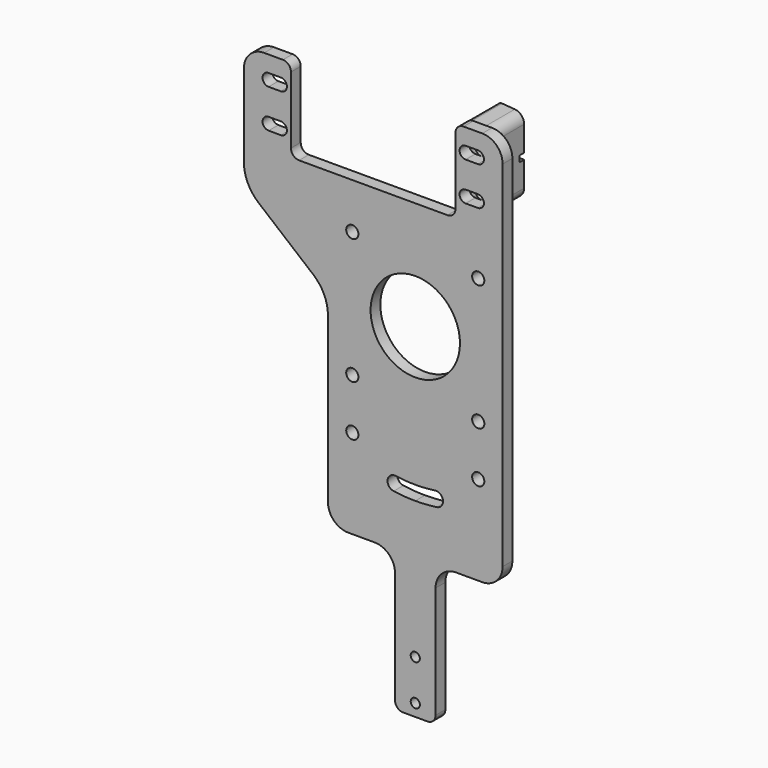
from build123d import *

# Parameters (mm, degrees)
F1_R     = 1.5
F1_R_2   = 1.125
F1_R_3   = 11
F2_DEPTH = 3
F3_R     = 1.5
F4_DEPTH = 10
F5_W     = 6.5
F5_H     = 1.5
F6_DEPTH = 1.5
F7_R     = 1
F8_R     = 2.5


with BuildPart() as f2:
    # F1 (on Front) → F2 (new body)
    with BuildSketch(Plane.XZ):
        with BuildLine():
            ThreePointArc((16.5, -50), (20.035534, -48.535534), (21.5, -45))
            Line((21.5, -45), (21.5, 42.25))
            ThreePointArc((21.5, 42.25), (20.035534, 45.785534), (16.5, 47.25))
            Line((16.5, 47.25), (11.9, 47.25))
            ThreePointArc((11.9, 47.25), (10.485786, 46.664214), (9.9, 45.25))
            Line((9.9, 45.25), (9.9, 28.75))
            ThreePointArc((9.9, 28.75), (9.314214, 27.335786), (7.9, 26.75))
            Line((7.9, 26.75), (-28.6, 26.75))
            ThreePointArc((-28.6, 26.75), (-30.014214, 27.335786), (-30.6, 28.75))
            Line((-30.6, 28.75), (-30.6, 45.25))
            ThreePointArc((-30.6, 45.25), (-31.185786, 46.664214), (-32.6, 47.25))
            Line((-32.6, 47.25), (-37.2, 47.25))
            ThreePointArc((-37.2, 47.25), (-40.735534, 45.785534), (-42.2, 42.25))
            Line((-42.2, 42.25), (-42.2, 22.015033))
            ThreePointArc((-42.2, 22.015033), (-41.251777, 17.7647), (-38.586933, 14.320419))
            Line((-38.586933, 14.320419), (-25.113067, 3.136405))
            ThreePointArc((-25.113067, 3.136405), (-22.448223, -0.307876), (-21.5, -4.558209))
            Line((-21.5, -4.558209), (-21.5, -45))
            ThreePointArc((-21.5, -45), (-20.035534, -48.535534), (-16.5, -50))
            Line((-16.5, -50), (-10, -50))
            ThreePointArc((-10, -50), (-6.464466, -51.464466), (-5, -55))
            Line((-5, -55), (-5, -82.573619))
            ThreePointArc((-5, -82.573619), (-4.414214, -83.987833), (-3, -84.573619))
            Line((-3, -84.573619), (3, -84.573619))
            ThreePointArc((3, -84.573619), (4.414214, -83.987833), (5, -82.573619))
            Line((5, -82.573619), (5, -55))
            ThreePointArc((5, -55), (6.464466, -51.464466), (10, -50))
            Line((10, -50), (16.5, -50))
        make_face()
        with Locations((-15.5, -28)):
            Circle(F1_R, mode=Mode.SUBTRACT)
        with Locations((0, -81.573619)):
            Circle(F1_R_2, mode=Mode.SUBTRACT)
        with Locations((0, -71.573619)):
            Circle(F1_R_2, mode=Mode.SUBTRACT)
        with BuildLine():
            ThreePointArc((0, -34.25), (2.419604, -34.164426), (4.827117, -33.908132))
            ThreePointArc((4.827117, -33.908132), (6.80629, -35.394024), (5.320399, -37.373197))
            ThreePointArc((5.320399, -37.373197), (2.666863, -37.655681), (0, -37.75))
            ThreePointArc((0, -37.75), (-2.666863, -37.655681), (-5.320399, -37.373197))
            ThreePointArc((-5.320399, -37.373197), (-6.80629, -35.394024), (-4.827117, -33.908132))
            ThreePointArc((-4.827117, -33.908132), (-2.419604, -34.164426), (0, -34.25))
        make_face(mode=Mode.SUBTRACT)
        with Locations((15.5, -28)):
            Circle(F1_R, mode=Mode.SUBTRACT)
        with Locations((-15.5, -15.5)):
            Circle(F1_R, mode=Mode.SUBTRACT)
        with BuildLine():
            ThreePointArc((-36.1, 30.75), (-37.6, 32.25), (-36.1, 33.75))
            Line((-36.1, 33.75), (-33.1, 33.75))
            ThreePointArc((-33.1, 33.75), (-31.6, 32.25), (-33.1, 30.75))
            Line((-33.1, 30.75), (-36.1, 30.75))
        make_face(mode=Mode.SUBTRACT)
        with BuildLine():
            Line((-33.1, 40.25), (-36.1, 40.25))
            ThreePointArc((-36.1, 40.25), (-37.6, 41.75), (-36.1, 43.25))
            Line((-36.1, 43.25), (-33.1, 43.25))
            ThreePointArc((-33.1, 43.25), (-31.6, 41.75), (-33.1, 40.25))
        make_face(mode=Mode.SUBTRACT)
        with Locations((-15.5, 15.5)):
            Circle(F1_R, mode=Mode.SUBTRACT)
        Circle(F1_R_3, mode=Mode.SUBTRACT)
        with Locations((15.5, -15.5)):
            Circle(F1_R, mode=Mode.SUBTRACT)
        with Locations((15.5, 15.5)):
            Circle(F1_R, mode=Mode.SUBTRACT)
        with BuildLine():
            Line((15.4, 30.75), (12.4, 30.75))
            ThreePointArc((12.4, 30.75), (10.9, 32.25), (12.4, 33.75))
            Line((12.4, 33.75), (15.4, 33.75))
            ThreePointArc((15.4, 33.75), (16.9, 32.25), (15.4, 30.75))
        make_face(mode=Mode.SUBTRACT)
        with BuildLine():
            Line((15.4, 40.25), (12.4, 40.25))
            ThreePointArc((12.4, 40.25), (10.9, 41.75), (12.4, 43.25))
            Line((12.4, 43.25), (15.4, 43.25))
            ThreePointArc((15.4, 43.25), (16.9, 41.75), (15.4, 40.25))
        make_face(mode=Mode.SUBTRACT)
    extrude(amount=F2_DEPTH)


with BuildPart() as f4:
    # F3 (on Front) → F4 (new body)
    with BuildSketch(Plane.XZ):
        Polygon((16.4, 27.75), (16.4, 46.25), (9.9, 46.75), (9.9, 27.25), align=None)
        with Locations((13.9, 32.25)):
            Circle(F3_R, mode=Mode.SUBTRACT)
        with Locations((13.9, 41.75)):
            Circle(F3_R, mode=Mode.SUBTRACT)
    extrude(amount=-F4_DEPTH)

    # F5 (on face) → F6 (cut)
    with BuildSketch(Plane(origin=(0, 10, 0), x_dir=(-1, 0, 0), z_dir=(0, 1, 0))):
        with Locations((-13.15, 37)):
            Rectangle(F5_W, F5_H)
    extrude(amount=-F6_DEPTH, mode=Mode.SUBTRACT)

    # F7
    f7_edges = [f4.edges().sort_by_distance(p)[0] for p in [
        (9.9, 5, 46.75),
        (9.9, 5, 27.25),
    ]]
    fillet(f7_edges, radius=F7_R)

    # F8
    f8_edges = [f4.edges().sort_by_distance(p)[0] for p in [
        (16.4, 5, 27.75),
        (16.4, 5, 46.25),
    ]]
    fillet(f8_edges, radius=F8_R)


solid = Compound([f2.part, f4.part])
